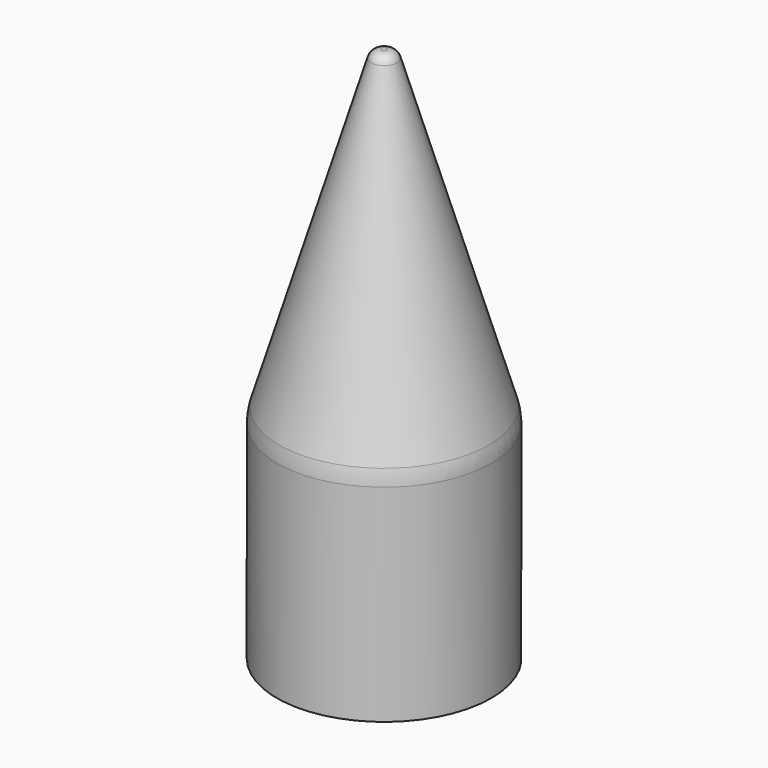
from build123d import *

# Parameters (mm, degrees)
F2_R = 0.1
F3_R = 0.5


with BuildPart() as f1:
    # F0 (on Front) → F1 (revolve)
    with BuildSketch(Plane.XZ):
        Polygon((0, 5), (0, 0), (1, 0), (1, 2), (0.1, 5), align=None)
    revolve(axis=Axis((0, 0, 2.5), (0, 0, -1)))

    # F2
    f2_edges = [f1.edges().sort_by_distance(p)[0] for p in [
        (-0.1, 0, 5),
    ]]
    fillet(f2_edges, radius=F2_R)

    # F3
    f3_edges = [f1.edges().sort_by_distance(p)[0] for p in [
        (-1, 0, 2),
    ]]
    fillet(f3_edges, radius=F3_R)


solid = f1.part
